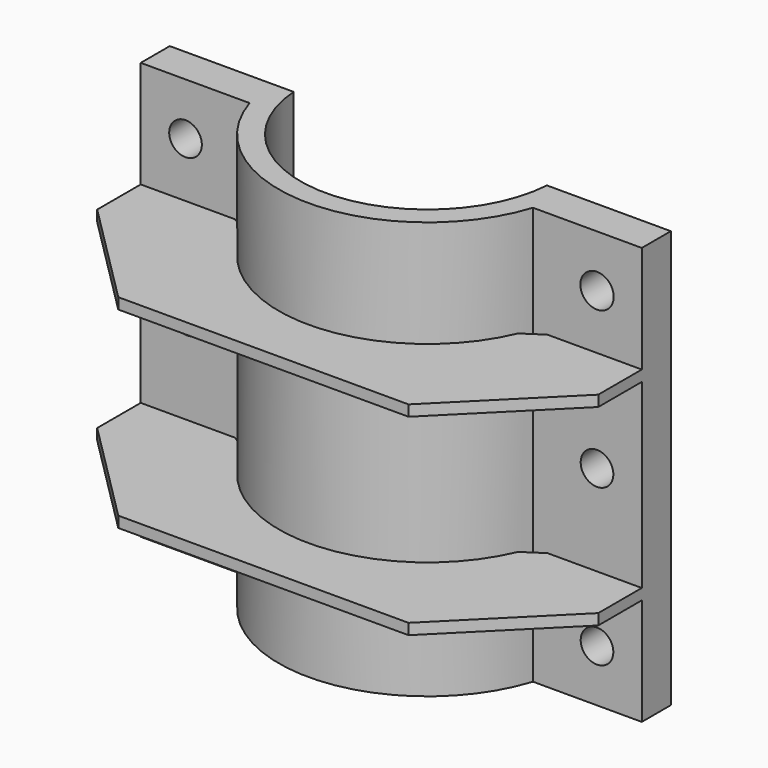
from build123d import *

# Parameters (mm, degrees)
EXTRUDE002_DEPTH         = 6
SKETCH003_R              = 9
SKETCH003_R_2            = 9.18475
EXTRUDE003_DEPTH         = 30
EXTRUDE001_DEPTH         = 115
CLONE002_PLACEMENT_ANGLE = 180


with BuildPart() as extrude002:
    # Sketch002 → Extrude002 (new body)
    with BuildSketch(Plane.XY):
        with BuildLine():
            Line((-138.096095, -175), (-138.096095, -145))
            Line((-138.096095, -145), (-80, -86.903905))
            Line((-80, -86.903905), (80, -86.903905))
            Line((80, -86.903905), (138.096095, -145))
            Line((138.096095, -145), (138.096095, -175))
            Line((138.096095, -175), (86.096095, -175))
            Line((86.096095, -175), (74.344944, -167.222083))
            ThreePointArc((74.344944, -167.222083), (0, -118.75), (-74.344944, -167.222083))
            Line((-86.096095, -175), (-74.344944, -167.222083))
            Line((-138.096095, -175), (-86.096095, -175))
        make_face()
    extrude(amount=EXTRUDE002_DEPTH)


with BuildPart() as extrude002_1:
    # Extrude002 placement: moved
    add(extrude002.part.moved(Location((0, 0, 50))))


with BuildPart() as loch:
    # Sketch003 (on Face3 of Extrude001) → Extrude003 (new body, symmetric)
    with BuildSketch(Plane(origin=(0, -175, 0), x_dir=(-1, 0, 0), z_dir=(0, 1, 0))):
        with Locations((-113.412567, 86.219978)):
            Circle(SKETCH003_R)
        with Locations((-113.412567, -86.219978)):
            Circle(SKETCH003_R_2)
        with Locations((113.412567, -86.219978)):
            Circle(SKETCH003_R)
        with Locations((113.412567, 86.219978)):
            Circle(SKETCH003_R)
        with Locations((112.569069, 0)):
            Circle(SKETCH003_R)
        with Locations((-113.412567, 0)):
            Circle(SKETCH003_R)
    extrude(amount=EXTRUDE003_DEPTH, both=True)


with BuildPart() as cut:
    # Sketch001 → Extrude001 (new body, symmetric)
    with BuildSketch(Plane.XY):
        with BuildLine():
            ThreePointArc((78.096095, -175), (0, -118), (-78.096095, -175))
            Line((-78.096095, -175), (-138.096095, -175))
            Line((-138.096095, -175), (-138.096095, -195))
            Line((-138.096095, -195), (-69.8212, -195))
            ThreePointArc((69.8212, -195), (0, -130), (-69.8212, -195))
            Line((69.8212, -195), (138.096095, -195))
            Line((138.096095, -195), (138.096095, -175))
            Line((138.096095, -175), (78.096095, -175))
        make_face()
    extrude(amount=EXTRUDE001_DEPTH, both=True)

    # Cut: cut Loch
    add(loch.part, mode=Mode.SUBTRACT)


with BuildPart() as obj1:
    # Clone001 base: copy of Extrude002
    add(extrude002_1.part)


with BuildPart() as obj1_1:
    # Clone001 placement: moved
    add(obj1.part.moved(Location((0, 0, -106))))

    # Fusion: union Extrude002, Cut
    add(extrude002_1.part)
    add(cut.part)


with BuildPart() as obj1_2:
    # Clone002 placement: moved
    add(obj1_1.part.moved(Location((0, -400, 0))).rotate(Axis((0, -400, 0), (1, 0, 0)), CLONE002_PLACEMENT_ANGLE))


solid = obj1_2.part
